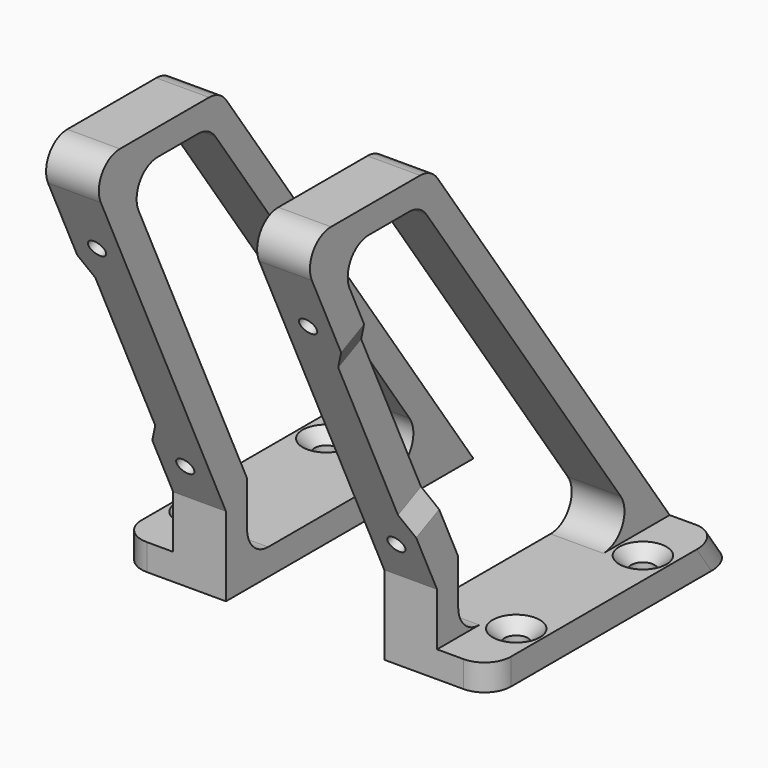
from build123d import *

# Parameters (mm, degrees)
F1_DEPTH        = 10
F3_DEPTH        = 10
F4_R            = 5
F6_D            = 3.3
F6_DEPTH        = 10
F6_TIP          = 0.9914200214
F8_R            = 5
F10_DEPTH       = 6
F13_D           = 4.4
F13_DEPTH       = 10
F13_CSINK_D     = 8.96
F13_CSINK_ANGLE = 90
F13_TIP         = 1.3218933619


with BuildPart() as f1:
    # F0 (on Right) → F1 (new body)
    with BuildSketch(Plane.YZ):
        Polygon((0, 15), (0, 0), (58.5926061795, 0), (-1.4095833585, 85.6920073889), (-32.9642244158, 85.6920073889), align=None)
        Polygon((-4.0124186112, 80.6920073889), (48.9876955447, 5), (5, 5), (5, 18.4746748964), (-24.0124186112, 80.6920073889), align=None, mode=Mode.SUBTRACT)
    extrude(amount=F1_DEPTH)

    # F2 (on face) → F3 (join)
    with BuildSketch(Plane(origin=(0, 0, 0), x_dir=(0, -1, 0), z_dir=(-1, 0, 0))):
        Polygon((-48.9876955447, 5), (-55.0915684885, 5), (-58.5926061795, 0), (0, 0), (0, 5), (-5, 5), align=None)
    extrude(amount=F3_DEPTH)

    # F4
    f4_edges = [f1.edges().sort_by_distance(p)[0] for p in [
        (-10, 56.842087, 2.5),
        (-10, 0, 2.5),
        (5, -1.409583, 85.692007),
    ]]
    fillet(f4_edges, radius=F4_R)

    # F6
    with Locations(Plane(origin=(0, 5.7453333234, 2.6790929274), x_dir=(1, 0, 0), z_dir=(0, -0.906307787, -0.4226182617))):
        with Locations((5, 71.0946168055), (5, 21.5946168055)):
            Hole(F6_D / 2, depth=F6_DEPTH)
            with Locations((0, 0, -(F6_DEPTH + F6_TIP / 2))):  # 118° drill point
                Cone(0, F6_D / 2, F6_TIP, mode=Mode.SUBTRACT)

    # F8
    f8_edges = [f1.edges().sort_by_distance(p)[0] for p in [
        (5, -32.964224, 85.692007),
        (5, -24.012419, 80.692007),
        (5, -4.012419, 80.692007),
        (5, 5, 5),
        (5, 48.987696, 5),
    ]]
    fillet(f8_edges, radius=F8_R)

    # F9 (on face) → F10 (cut, through all)
    with BuildSketch(Plane(origin=(0, 5.7453333234, 2.6790929274), x_dir=(1, 0, 0), z_dir=(0, -0.906307787, -0.4226182617))):
        Polygon((2, 29.5946168055), (2, 63.0946168055), (0, 67.3836306466), (0, 25.3056029645), align=None)
    extrude(amount=-F10_DEPTH, mode=Mode.SUBTRACT)

    # F13
    with Locations(Plane.XY.offset(5)):
        with Locations((-5, 42.5), (-5, 12.5)):
            CounterSinkHole(F13_D / 2, F13_CSINK_D / 2, depth=F13_DEPTH, counter_sink_angle=F13_CSINK_ANGLE)
            with Locations((0, 0, -(F13_DEPTH + F13_TIP / 2))):  # 118° drill point
                Cone(0, F13_D / 2, F13_TIP, mode=Mode.SUBTRACT)


with BuildPart() as f14_1:
    # F14: instance of F1
    add(f1.part.mirror(Plane(origin=(25, 9.4244202905, 39.0277979047), x_dir=(0, 1, 0), z_dir=(1, 0, 0))))


solid = Compound([f1.part, f14_1.part])
